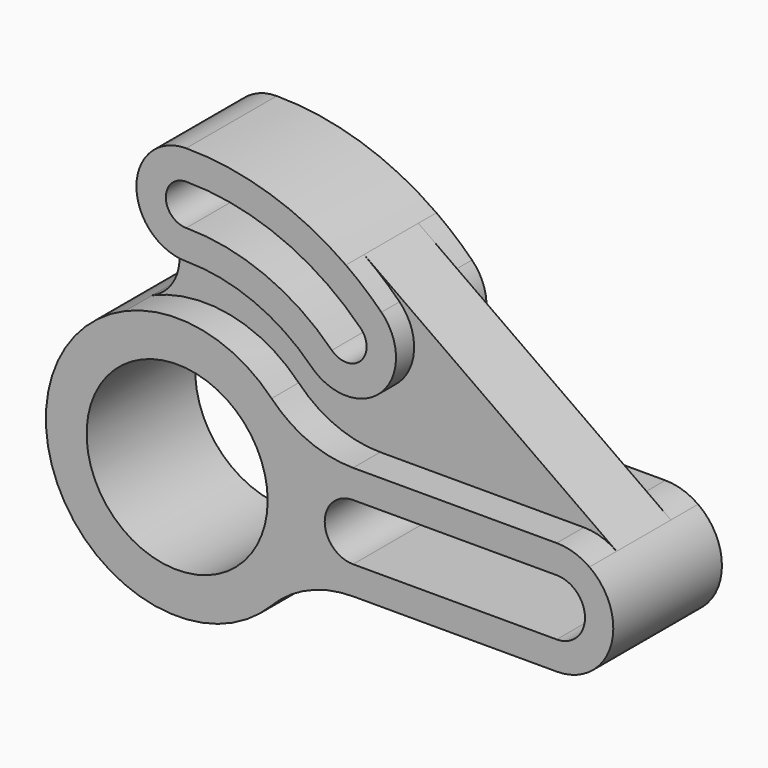
from build123d import *

# Parameters (mm, degrees)
F0_R     = 40
F1_DEPTH = 30
F2_DEPTH = 15
F3_DEPTH = 25


with BuildPart() as f1:
    # F0 (on Front) → F1 (new body, symmetric)
    with BuildSketch(Plane.XZ):
        with BuildLine():
            ThreePointArc((41.733687, -40.277778), (58.167604, -28.977662), (77.711003, -25))
            Line((77.711003, -25), (167.711003, -25))
            ThreePointArc((167.711003, -25), (191.531756, -7.587605), (182.1704, 20.39426))
            ThreePointArc((182.1704, 20.39426), (175.298608, 23.820752), (167.711003, 25))
            Line((167.711003, 25), (77.711003, 25))
            ThreePointArc((77.711003, 25), (58.167604, 28.977662), (41.733687, 40.277778))
            ThreePointArc((41.733687, 40.277778), (11.387237, 56.871177), (-23.008546, 53.241026))
            ThreePointArc((-23.008546, 53.241026), (-47.687518, -33.013643), (41.733687, -40.277778))
        make_face()
        Circle(F0_R, mode=Mode.SUBTRACT)
        with BuildLine():
            ThreePointArc((77.711003, -12.5), (65.211003, 0), (77.711003, 12.5))
            Line((77.711003, 12.5), (167.711003, 12.5))
            ThreePointArc((167.711003, 12.5), (180.211003, 0), (167.711003, -12.5))
            Line((167.711003, -12.5), (77.711003, -12.5))
        make_face(mode=Mode.SUBTRACT)
    extrude(amount=F1_DEPTH, both=True)

    # F0 (on Front) → F2 (join, symmetric)
    with BuildSketch(Plane.XZ):
        with BuildLine():
            ThreePointArc((-16.207991, 85.12381), (-11.382532, 67.427879), (-23.008546, 53.241026))
            ThreePointArc((-23.008546, 53.241026), (11.387237, 56.871177), (41.733687, 40.277778))
            ThreePointArc((41.733687, 40.277778), (58.167604, 28.977662), (77.711003, 25))
            Line((77.711003, 25), (167.711003, 25))
            ThreePointArc((167.711003, 25), (175.298608, 23.820752), (182.1704, 20.39426))
            Line((182.1704, 20.39426), (70.561858, 99.523988))
            ThreePointArc((70.561858, 99.523988), (78.694101, 93.226812), (86.267027, 86.267027))
            ThreePointArc((86.267027, 86.267027), (86.267027, 55.154329), (55.154329, 55.154329))
            ThreePointArc((55.154329, 55.154329), (29.849308, 72.062604), (0, 78))
            ThreePointArc((0, 78), (-8.852226, 79.859541), (-16.207991, 85.12381))
        make_face()
    extrude(amount=F2_DEPTH, both=True)

    # F0 (on Front) → F3 (join, symmetric)
    with BuildSketch(Plane.XZ):
        with BuildLine():
            ThreePointArc((0, 122), (-20.140459, 108.852226), (-16.207991, 85.12381))
            ThreePointArc((-16.207991, 85.12381), (-8.852226, 79.859541), (0, 78))
            ThreePointArc((0, 78), (29.849308, 72.062604), (55.154329, 55.154329))
            ThreePointArc((55.154329, 55.154329), (86.267027, 55.154329), (86.267027, 86.267027))
            ThreePointArc((86.267027, 86.267027), (78.694101, 93.226812), (70.561858, 99.523988))
            ThreePointArc((70.561858, 99.523988), (37.027513, 116.245272), (0, 122))
        make_face()
        with BuildLine():
            ThreePointArc((0, 91), (-9, 100), (0, 109))
            ThreePointArc((0, 109), (41.712494, 100.702869), (77.074639, 77.074639))
            ThreePointArc((77.074639, 77.074639), (77.074639, 64.346717), (64.346717, 64.346717))
            ThreePointArc((64.346717, 64.346717), (34.824192, 84.073037), (0, 91))
        make_face(mode=Mode.SUBTRACT)
    extrude(amount=F3_DEPTH, both=True)


solid = f1.part
